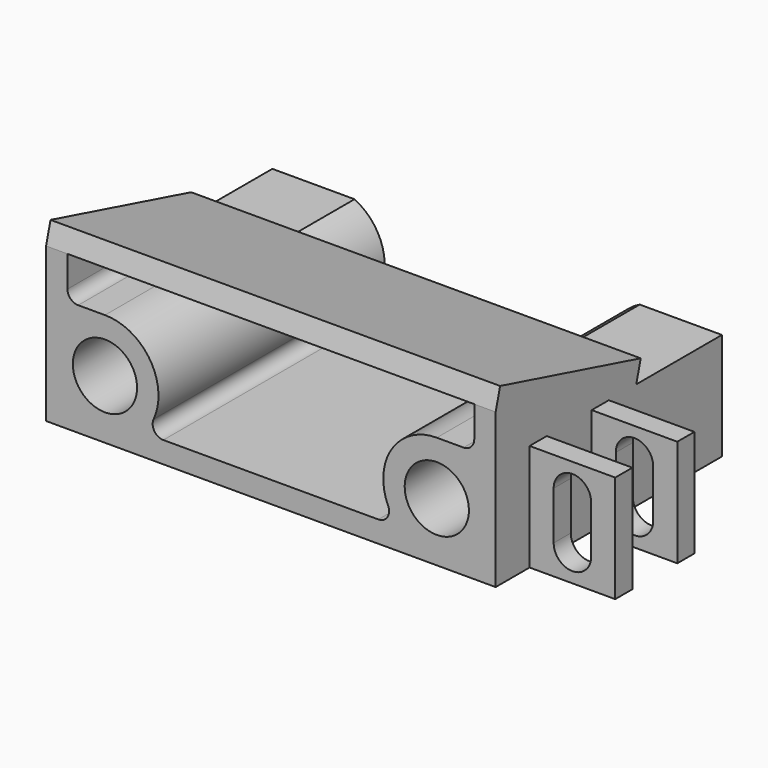
from build123d import *

# Parameters (mm, degrees)
PAD002_DEPTH    = 21
SKETCH005_R     = 3
POCKET002_DEPTH = 24
POCKET003_DEPTH = 26.421739
SKETCH007_R     = 1.75
POCKET004_DEPTH = 2.421739
FILLET001_R     = 1
FILLET002_R     = 1
SKETCH008_W     = 17
SKETCH008_H     = 42
PAD003_DEPTH    = 2
SKETCH013_W     = 2
SKETCH013_H     = 10
PAD006_DEPTH    = 8
POCKET007_DEPTH = 22.46137


with BuildPart() as part:
    # Sketch004 → Pad002 (new body, symmetric)
    with BuildSketch(Plane.YZ):
        Polygon((-13.21037, 0), (13.21037, 0), (13.21037, 10), (3.21037, 10), (-13.21037, 14.399924), align=None)
    extrude(amount=PAD002_DEPTH, both=True)

    # Sketch005 (on Face5 of Pad002) → Pocket002 (cut)
    with BuildSketch(Plane(origin=(0, -13.21037, 0), x_dir=(0, 0, -1), z_dir=(0, -1, 0))):
        with Locations((-5.5, -15.5)):
            Circle(SKETCH005_R)
        with Locations((-5.5, 15.5)):
            Circle(SKETCH005_R)
    extrude(amount=-POCKET002_DEPTH, mode=Mode.SUBTRACT)

    # Sketch006 (on Face2 of Pocket002) → Pocket003 (cut, through all)
    with BuildSketch(Plane(origin=(0, -13.21037, 0), x_dir=(0, 0, -1), z_dir=(0, -1, 0))):
        with BuildLine():
            Line((-2, -11.929286), (-2, 11.929286))
            ThreePointArc((-10.5, 15.50003), (-7.436506, 10.890234), (-2, 11.929286))
            Line((-10.5, 15.50003), (-10.5, 19))
            Line((-10.5, 19), (-14.399924, 19))
            Line((-14.399924, 19), (-14.399924, -19))
            Line((-14.399924, -19), (-10.5, -19))
            Line((-10.5, -19), (-10.5, -15.5))
            ThreePointArc((-2, -11.929286), (-7.436492, -10.890228), (-10.5, -15.5))
        make_face()
    extrude(amount=-POCKET003_DEPTH, mode=Mode.SUBTRACT)

    # Sketch007 (on Face21 of Pocket003) → Pocket004 (cut, through all)
    with BuildSketch(Plane(origin=(0, 10.78963, 0), x_dir=(0, 0, -1), z_dir=(0, -1, 0))):
        with Locations((-5.5, 15.5)):
            Circle(SKETCH007_R)
        with Locations((-5.5, -15.5)):
            Circle(SKETCH007_R)
    extrude(amount=-POCKET004_DEPTH, mode=Mode.SUBTRACT)

    # Fillet001
    fillet001_edges = [part.edges().sort_by_distance(p)[0] for p in [
        (-11.929286, 0, 2),
        (11.929286, 0, 2),
    ]]
    fillet(fillet001_edges, radius=FILLET001_R)

    # Fillet002
    fillet002_edges = [part.edges().sort_by_distance(p)[0] for p in [
        (-19, -5.933013, 10.5),
        (19, -5.933013, 10.5),
    ]]
    fillet(fillet002_edges, radius=FILLET002_R)

    # Sketch008 (on Face15 of Fillet002) → Pad003 (join)
    with BuildSketch(Plane(origin=(0, 2.715054, 10.132719), x_dir=(0, -0.965926, 0.258819), z_dir=(0, 0.258819, 0.965926))):
        with Locations((7.987212, 0)):
            Rectangle(SKETCH008_W, SKETCH008_H)
    extrude(amount=PAD003_DEPTH)

    # Sketch013 (on Face10 of Pad003) → Pad006 (join)
    with BuildSketch(Plane.YZ.offset(21)):
        with Locations((-8.25, 5)):
            Rectangle(SKETCH013_W, SKETCH013_H)
        with Locations((-1, 5)):
            Rectangle(SKETCH013_W, SKETCH013_H)
    extrude(amount=PAD006_DEPTH)

    # Sketch014 (on Face33 of Pad006) → Pocket007 (cut, through all)
    with BuildSketch(Plane(origin=(0, -9.25, 0), x_dir=(0, 0, -1), z_dir=(0, -1, 0))):
        with BuildLine():
            ThreePointArc((-2.75, 23.25), (-1, 25), (-2.75, 26.75))
            Line((-2.75, 26.75), (-7.25, 26.75))
            ThreePointArc((-7.25, 26.75), (-9, 25), (-7.25, 23.25))
            Line((-2.75, 23.25), (-7.25, 23.25))
        make_face()
    extrude(amount=-POCKET007_DEPTH, mode=Mode.SUBTRACT)


solid = part.part
